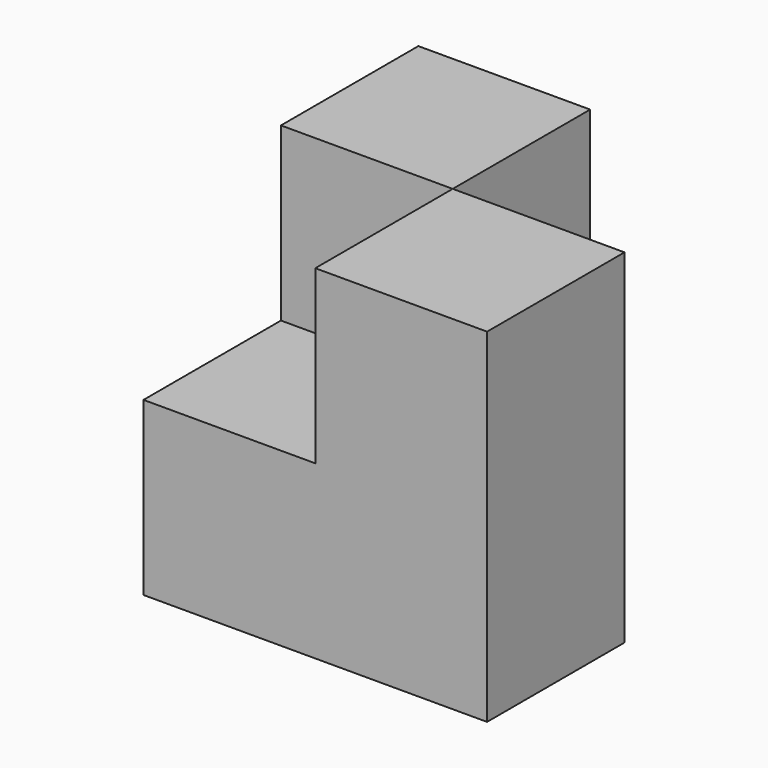
from build123d import *

# Parameters (mm, degrees)
F0_W     = 25.4
F0_H     = 25.4
F1_DEPTH = 25.4
F2_W     = 25.4
F2_H     = 25.4
F3_DEPTH = 25.4


with BuildPart() as f1:
    # F0 (on Front) → F1 (new body)
    with BuildSketch(Plane.XZ):
        with Locations((12.7, 12.7)):
            Rectangle(F0_W, F0_H)
        with Locations((38.1, 12.7)):
            Rectangle(F0_W, F0_H)
        with Locations((38.1, 38.1)):
            Rectangle(F0_W, F0_H)
    extrude(amount=F1_DEPTH)


with BuildPart() as f3:
    # F2 (on face) → F3 (new body)
    with BuildSketch(Plane(origin=(0, 0, 0), x_dir=(-1, 0, 0), z_dir=(0, 1, 0))):
        with Locations((-12.7, 38.1)):
            Rectangle(F2_W, F2_H)
        with Locations((-12.7, 12.7)):
            Rectangle(F2_W, F2_H)
    extrude(amount=F3_DEPTH)


solid = Compound([f1.part, f3.part])
